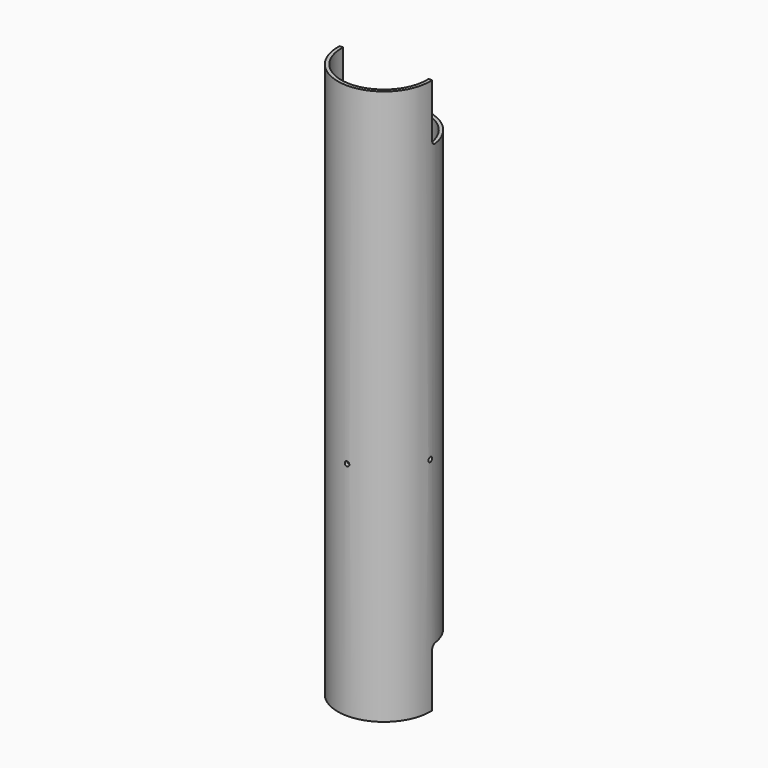
from build123d import *

# Parameters (mm, degrees)
SKETCH_R             = 20
SKETCH_R_2           = 18.5
PAD_DEPTH            = 240
SKETCH007_R          = 1
POCKET_DEPTH         = 20.001
POCKET_DEPTH_BACK    = 20.001
SKETCH008_R          = 1
POCKET001_DEPTH      = 20.001
POCKET001_DEPTH_BACK = -20.001


with BuildPart() as part:
    # Sketch → Pad (new body)
    with BuildSketch(Plane.XY):
        Circle(SKETCH_R)
        Circle(SKETCH_R_2, mode=Mode.SUBTRACT)
    extrude(amount=PAD_DEPTH)

    # Sketch007 → Pocket (cut, two sides)
    with BuildSketch(Plane.YZ) as pocket_sk:
        with Locations((0, 96)):
            Circle(SKETCH007_R)
        with BuildLine():
            Line((1, 0), (22, 0))
            Line((22, 0), (22, 25))
            Line((22, 25), (3, 25))
            ThreePointArc((3, 25), (1.585786, 24.414214), (1, 23))
            Line((1, 23), (1, 0))
        make_face()
        with BuildLine():
            Line((1, 240), (22, 240))
            Line((22, 240), (22, 215))
            Line((22, 215), (3, 215))
            ThreePointArc((1, 217), (1.585786, 215.585786), (3, 215))
            Line((1, 217), (1, 240))
        make_face()
    extrude(amount=POCKET_DEPTH, mode=Mode.SUBTRACT)
    extrude(pocket_sk.sketch, amount=-POCKET_DEPTH_BACK, mode=Mode.SUBTRACT)

    # Sketch008 → Pocket001 (cut, two sides)
    with BuildSketch(Plane.XZ) as pocket001_sk:
        with Locations((0, 96)):
            Circle(SKETCH008_R)
    extrude(amount=-POCKET001_DEPTH, mode=Mode.SUBTRACT)
    extrude(pocket001_sk.sketch, amount=-POCKET001_DEPTH_BACK, mode=Mode.SUBTRACT)


solid = part.part
